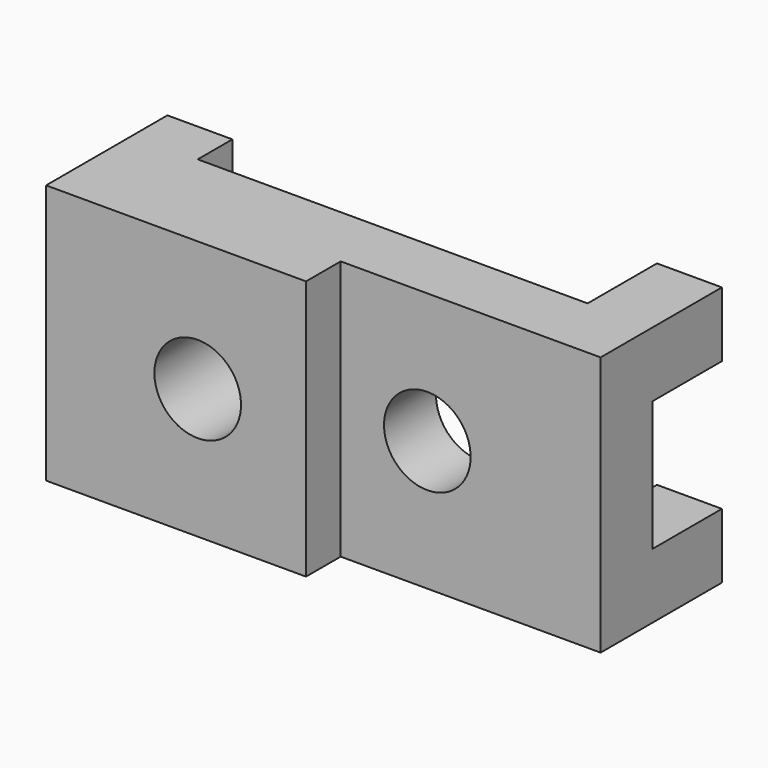
from build123d import *

# Parameters (mm, degrees)
F1_DEPTH = 60
F2_W     = 15
F2_H     = 30.000005
F3_DEPTH = 20
F4_R     = 10
F5_DEPTH = 47.6


with BuildPart() as f1:
    # F0 (on Top) → F1 (new body)
    with BuildSketch(Plane.XY):
        Polygon((-73.099835, 24.203357), (-73.099835, -10.796643), (-13.099835, -10.796643), (-13.099835, -0.796643), (46.900165, -0.796643), (46.900165, 34.203357), (31.900165, 34.203357), (31.900165, 14.203357), (-58.099835, 14.203357), (-58.099835, 24.203357), align=None)
    extrude(amount=F1_DEPTH)

    # F2 (on face) → F3 (cut)
    with BuildSketch(Plane(origin=(0, 34.203357, 0), x_dir=(-1, 0, 0), z_dir=(0, 1, 0))):
        with Locations((-39.400165, 30.000003)):
            Rectangle(F2_W, F2_H)
    extrude(amount=-F3_DEPTH, mode=Mode.SUBTRACT)

    # F4 (on face) → F5 (cut)
    with BuildSketch(Plane(origin=(0, 14.203357, 0), x_dir=(-1, 0, 0), z_dir=(0, 1, 0))):
        with Locations((-6.900165, 30.000005)):
            Circle(F4_R)
        with Locations((38.099835, 30)):
            Circle(F4_R)
    extrude(amount=-F5_DEPTH, mode=Mode.SUBTRACT)


solid = f1.part
